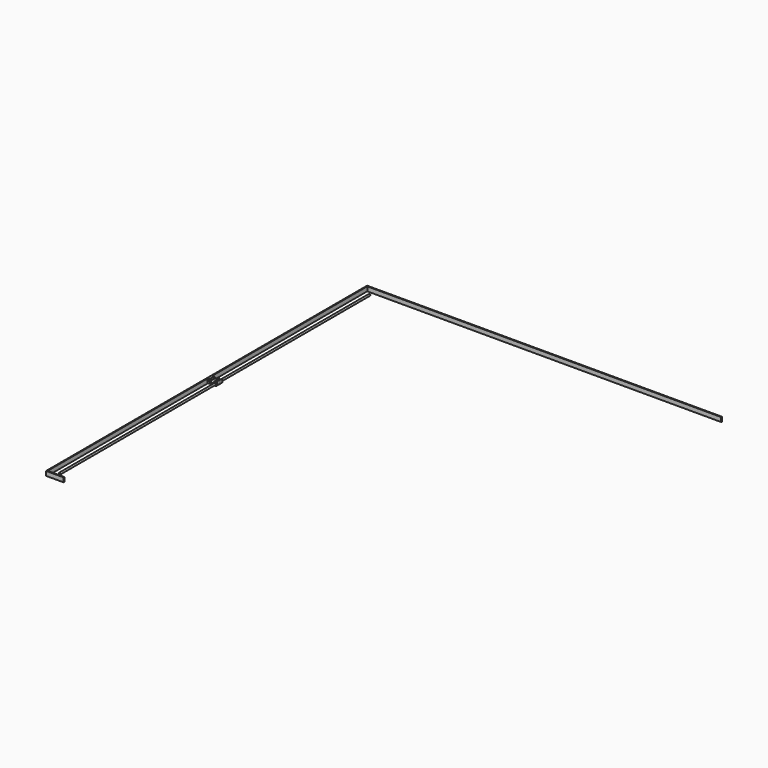
from build123d import *

# Parameters (mm, degrees)
F0_W           = 2280
F0_H           = 25
F1_DEPTH       = 5
F2_W           = 2025
F2_H           = 25
F3_DEPTH       = 5
F4_W           = 100
F4_H           = 25
F5_DEPTH       = 5
F6_W           = 40
F6_H           = 22.5
F7_DEPTH       = 10
F8_SIZE        = 5
F9_W           = 40
F9_H           = 10
F10_DEPTH      = 45
F11_W          = 20
F11_H          = 10
F12_DEPTH      = 40
F14_DEPTH      = 1145.001
F15_R          = 4.5
F16_R          = 10
F17_R          = 2.75
F18_DEPTH      = 15.001
F19_R          = 5
F20_DEPTH      = 1060
F20_DEPTH_BACK = 1150


with BuildPart() as f1:
    # F0 (on Right) → F1 (new body)
    with BuildSketch(Plane.YZ):
        with Locations((1140, 12.5)):
            Rectangle(F0_W, F0_H)
    extrude(amount=F1_DEPTH)

    # F2 (on face) → F3 (join)
    with BuildSketch(Plane(origin=(0, 2280, 0), x_dir=(-1, 0, 0), z_dir=(0, 1, 0))):
        with Locations((-1012.5, 12.5)):
            Rectangle(F2_W, F2_H)
    extrude(amount=F3_DEPTH)

    # F4 (on face) → F5 (join)
    with BuildSketch(Plane.XZ):
        with Locations((50, 12.5)):
            Rectangle(F4_W, F4_H)
    extrude(amount=F5_DEPTH)


with BuildPart() as f7:
    # F6 (on face) → F7 (new body)
    with BuildSketch(Plane.YZ.offset(5)):
        with Locations((1160, 13.75)):
            Rectangle(F6_W, F6_H)
    extrude(amount=F7_DEPTH)

    # F8
    f8_edges = [f7.edges().sort_by_distance(p)[0] for p in [
        (10, 1140, 25),
        (10, 1180, 25),
    ]]
    chamfer(f8_edges, length=F8_SIZE)

    # F9 (on face) → F10 (join)
    with BuildSketch(Plane.YZ.offset(15)):
        with Locations((1160, 7.5)):
            Rectangle(F9_W, F9_H)
    extrude(amount=F10_DEPTH)

    # F11 (on face) → F12 (join, through all)
    with BuildSketch(Plane.XZ.offset(-1140)):
        with Locations((50, 17.5)):
            Rectangle(F11_W, F11_H)
    extrude(amount=-F12_DEPTH)

    # F13 (on face) → F14 (cut, through all)
    with BuildSketch(Plane.XZ.offset(-1140)):
        with BuildLine():
            Line((45, 22.5), (45, 13.5))
            ThreePointArc((45, 13.5), (50, 8.5), (55, 13.5))
            Line((55, 13.5), (55, 22.5))
            Line((55, 22.5), (45, 22.5))
        make_face()
    extrude(amount=-F14_DEPTH, mode=Mode.SUBTRACT)

    # F15
    f15_edges = [f7.edges().sort_by_distance(p)[0] for p in [
        (60, 1160, 22.5),
        (40, 1160, 22.5),
        (40, 1160, 12.5),
    ]]
    fillet(f15_edges, radius=F15_R)

    # F16
    f16_edges = [f7.edges().sort_by_distance(p)[0] for p in [
        (60, 1160, 2.5),
    ]]
    fillet(f16_edges, radius=F16_R)


with BuildPart() as f18_tool:
    # F17 (on face) → F18 (new body, through all)
    with BuildSketch(Plane.YZ.offset(15)):
        with Locations((1150, 19.5)):
            Circle(F17_R)
        with Locations((1170, 19.5)):
            Circle(F17_R)
    extrude(amount=-F18_DEPTH)


with BuildPart() as f1_1:
    add(f1.part)

    # F18: cut by f18_tool
    add(f18_tool.part, mode=Mode.SUBTRACT)


with BuildPart() as f7_1:
    add(f7.part)

    # F18: cut by f18_tool
    add(f18_tool.part, mode=Mode.SUBTRACT)

    # F19 (on face) → F20 (join, two sides)
    with BuildSketch(Plane(origin=(0, 1180, 0), x_dir=(-1, 0, 0), z_dir=(0, 1, 0))) as f20_sk:
        with Locations((-50, 13.5)):
            Circle(F19_R)
    extrude(amount=F20_DEPTH)
    extrude(f20_sk.sketch, amount=-F20_DEPTH_BACK)


solid = Compound([f1_1.part, f7_1.part])
